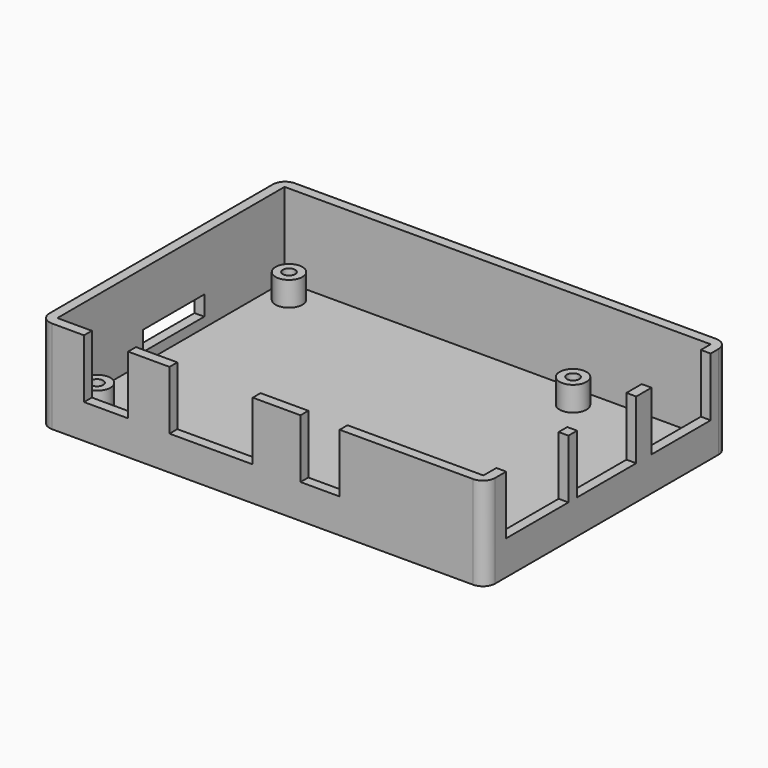
from build123d import *

# Parameters (mm, degrees)
F0_W     = 87
F0_H     = 58
F1_DEPTH = 2
F2_DEPTH = 19
F3_R     = 2.75
F3_R_2   = 1.25
F4_DEPTH = 5
F5_W     = 9
F5_H     = 2
F5_W_2   = 17
F5_W_3   = 8
F5_W_4   = 2
F5_H_2   = 15.9
F5_H_3   = 15.1
F6_DEPTH = 12
F7_W     = 15.6
F7_H     = 4
F8_DEPTH = 2


with BuildPart() as f1:
    # F0 (on Top) → F1 (new body)
    with BuildSketch(Plane.XY):
        with BuildLine():
            ThreePointArc((0, 2.5), (0.732233047, 0.732233047), (2.5, 0))
            Line((2.5, 0), (88.5, 0))
            ThreePointArc((88.5, 0), (90.267766953, 0.732233047), (91, 2.5))
            Line((91, 2.5), (91, 59.5))
            ThreePointArc((91, 59.5), (90.267766953, 61.267766953), (88.5, 62))
            Line((88.5, 62), (2.5, 62))
            ThreePointArc((2.5, 62), (0.732233047, 61.267766953), (0, 59.5))
            Line((0, 59.5), (0, 2.5))
        make_face()
        with Locations((45.5, 31)):
            Rectangle(F0_W, F0_H, mode=Mode.SUBTRACT)
        with Locations((45.5, 31)):
            Rectangle(F0_W, F0_H)
    extrude(amount=F1_DEPTH)

    # F0 (on Top) → F2 (join)
    with BuildSketch(Plane.XY):
        with BuildLine():
            ThreePointArc((0, 2.5), (0.732233047, 0.732233047), (2.5, 0))
            Line((2.5, 0), (88.5, 0))
            ThreePointArc((88.5, 0), (90.267766953, 0.732233047), (91, 2.5))
            Line((91, 2.5), (91, 59.5))
            ThreePointArc((91, 59.5), (90.267766953, 61.267766953), (88.5, 62))
            Line((88.5, 62), (2.5, 62))
            ThreePointArc((2.5, 62), (0.732233047, 61.267766953), (0, 59.5))
            Line((0, 59.5), (0, 2.5))
        make_face()
        with Locations((45.5, 31)):
            Rectangle(F0_W, F0_H, mode=Mode.SUBTRACT)
    extrude(amount=F2_DEPTH)

    # F3 (on face) → F4 (join)
    with BuildSketch(Plane.XY.offset(2)):
        with Locations((6.5, 55.5)):
            Circle(F3_R)
        with Locations((6.5, 55.5)):
            Circle(F3_R_2, mode=Mode.SUBTRACT)
        with Locations((6.5, 6.5)):
            Circle(F3_R)
        with Locations((6.5, 6.5)):
            Circle(F3_R_2, mode=Mode.SUBTRACT)
        with Locations((64.5, 6.5)):
            Circle(F3_R)
        with Locations((64.5, 6.5)):
            Circle(F3_R_2, mode=Mode.SUBTRACT)
        with Locations((64.5, 55.5)):
            Circle(F3_R)
        with Locations((64.5, 55.5)):
            Circle(F3_R_2, mode=Mode.SUBTRACT)
    extrude(amount=F4_DEPTH)

    # F5 (on face) → F6 (cut)
    with BuildSketch(Plane.XY.offset(19)):
        with Locations((13.55, 1)):
            Rectangle(F5_W, F5_H)
        with Locations((35, 1)):
            Rectangle(F5_W_2, F5_H)
        with Locations((57.25, 1)):
            Rectangle(F5_W_3, F5_H)
        with Locations((90, 13.25)):
            Rectangle(F5_W_4, F5_H_2)
        with Locations((90, 30.95)):
            Rectangle(F5_W_4, F5_H_3)
        with Locations((90, 49.95)):
            Rectangle(F5_W_4, F5_H_3)
    extrude(amount=-F6_DEPTH, mode=Mode.SUBTRACT)

    # F7 (on face) → F8 (cut, through all)
    with BuildSketch(Plane(origin=(0, 0, 0), x_dir=(0, -1, 0), z_dir=(-1, 0, 0))):
        with Locations((-31.7, 6)):
            Rectangle(F7_W, F7_H)
    extrude(amount=-F8_DEPTH, mode=Mode.SUBTRACT)


solid = f1.part
